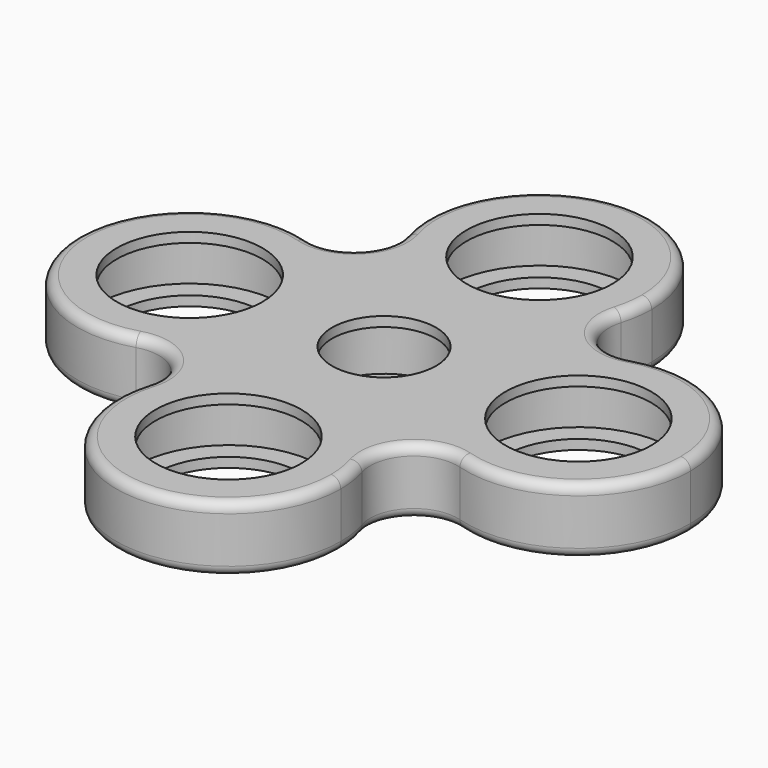
from build123d import *

# Parameters (mm, degrees)
F0_R        = 9.55
F0_R_2      = 7.5
F1_DEPTH    = 1
F0_R_3      = 6.35
F0_R_4      = 5.35
F2_DEPTH    = 6.75
F3_R        = 1
F4_START    = 4.75
F1_FACE_R   = 6.35
F1_FACE_R_2 = 5.35
F4_DEPTH    = 1
F5_START    = 4.75
F1_FACE_R_3 = 9.55
F1_FACE_R_4 = 7.5
F5_DEPTH    = 1


with BuildPart() as f1:
    # F0 (on Top) → F1 (new body)
    with BuildSketch(Plane.XY):
        with Locations((-20, 0)):
            Circle(F0_R)
        with Locations((-20, 0)):
            Circle(F0_R_2, mode=Mode.SUBTRACT)
    extrude(amount=F1_DEPTH)


with BuildPart() as f1b:
    # F0 (on Top) → F1, piece 2 (new body)
    with BuildSketch(Plane.XY):
        with Locations((0, 20)):
            Circle(F0_R)
        with Locations((0, 20)):
            Circle(F0_R_2, mode=Mode.SUBTRACT)
    extrude(amount=F1_DEPTH)


with BuildPart() as f1c:
    # F0 (on Top) → F1, piece 3 (new body)
    with BuildSketch(Plane.XY):
        with Locations((20, 0)):
            Circle(F0_R)
        with Locations((20, 0)):
            Circle(F0_R_2, mode=Mode.SUBTRACT)
    extrude(amount=F1_DEPTH)


with BuildPart() as f1d:
    # F0 (on Top) → F1, piece 4 (new body)
    with BuildSketch(Plane.XY):
        with Locations((0, -20)):
            Circle(F0_R)
        with Locations((0, -20)):
            Circle(F0_R_2, mode=Mode.SUBTRACT)
    extrude(amount=F1_DEPTH)


with BuildPart() as f1e:
    # F0 (on Top) → F1, piece 5 (new body)
    with BuildSketch(Plane.XY):
        Circle(F0_R_3)
        Circle(F0_R_4, mode=Mode.SUBTRACT)
    extrude(amount=F1_DEPTH)


with BuildPart() as f2:
    # F0 (on Top) → F2 (new body)
    with BuildSketch(Plane.XY):
        with BuildLine():
            ThreePointArc((11.0580223422, 16.6649375), (0, 8.45), (-11.0580223422, 16.6649375))
            ThreePointArc((-11.0580223422, 16.6649375), (-12.1846989285, 12.1846989285), (-16.6649375, 11.0580223422))
            ThreePointArc((-16.6649375, 11.0580223422), (-10.7284717583, 6.8877619052), (-8.45, 0))
            ThreePointArc((-8.45, 0), (-10.7284717583, -6.8877619052), (-16.6649375, -11.0580223422))
            ThreePointArc((-16.6649375, -11.0580223422), (-12.1846989285, -12.1846989285), (-11.0580223422, -16.6649375))
            ThreePointArc((-11.0580223422, -16.6649375), (0, -8.45), (11.0580223422, -16.6649375))
            ThreePointArc((11.0580223422, -16.6649375), (12.1846989285, -12.1846989285), (16.6649375, -11.0580223422))
            ThreePointArc((16.6649375, -11.0580223422), (8.45, 0), (16.6649375, 11.0580223422))
            ThreePointArc((16.6649375, 11.0580223422), (12.1846989285, 12.1846989285), (11.0580223422, 16.6649375))
        make_face()
        Circle(F0_R_3, mode=Mode.SUBTRACT)
        with BuildLine():
            ThreePointArc((-8.45, 0), (-10.7284717583, 6.8877619052), (-16.6649375, 11.0580223422))
            ThreePointArc((-16.6649375, 11.0580223422), (-31.55, 0), (-16.6649375, -11.0580223422))
            ThreePointArc((-16.6649375, -11.0580223422), (-10.7284717583, -6.8877619052), (-8.45, 0))
        make_face()
        with Locations((-20, 0)):
            Circle(F0_R, mode=Mode.SUBTRACT)
        with BuildLine():
            ThreePointArc((11.0580223422, 16.6649375), (11.4263436421, 18.3144226587), (11.55, 20))
            ThreePointArc((11.55, 20), (-1.6855773413, 31.4263436421), (-11.0580223422, 16.6649375))
            ThreePointArc((-11.0580223422, 16.6649375), (0, 8.45), (11.0580223422, 16.6649375))
        make_face()
        with Locations((0, 20)):
            Circle(F0_R, mode=Mode.SUBTRACT)
        with BuildLine():
            ThreePointArc((31.55, 0), (26.8877619052, 9.2715282417), (16.6649375, 11.0580223422))
            ThreePointArc((16.6649375, 11.0580223422), (8.45, 0), (16.6649375, -11.0580223422))
            ThreePointArc((16.6649375, -11.0580223422), (26.8877619052, -9.2715282417), (31.55, 0))
        make_face()
        with Locations((20, 0)):
            Circle(F0_R, mode=Mode.SUBTRACT)
        with BuildLine():
            ThreePointArc((11.0580223422, -16.6649375), (0, -8.45), (-11.0580223422, -16.6649375))
            ThreePointArc((-11.0580223422, -16.6649375), (-1.6855773413, -31.4263436421), (11.55, -20))
            ThreePointArc((11.55, -20), (11.4263436421, -18.3144226587), (11.0580223422, -16.6649375))
        make_face()
        with Locations((0, -20)):
            Circle(F0_R, mode=Mode.SUBTRACT)
    extrude(amount=F2_DEPTH)

    # F3
    f3_edges = [f2.edges().sort_by_distance(p)[0] for p in [
        (-12.184699, 12.184699, 0),
        (-31.55, 0, 0),
        (-12.184699, -12.184699, 0),
        (0, -31.55, 0),
        (12.184699, -12.184699, 0),
        (31.55, 0, 0),
        (12.184699, 12.184699, 0),
        (0, 31.55, 0),
        (0, -31.55, 6.75),
    ]]
    fillet(f3_edges, radius=F3_R)

    # F1_face (on face) → F4 (join)
    with BuildSketch(Plane.XY.offset(1).offset(F4_START)):
        Circle(F1_FACE_R)
        Circle(F1_FACE_R_2, mode=Mode.SUBTRACT)
    extrude(amount=F4_DEPTH)

    # F1_face (on face) → F5 (join)
    with BuildSketch(Plane.XY.offset(1).offset(F5_START)):
        with Locations((0, 20)):
            Circle(F1_FACE_R_3)
        with Locations((0, 20)):
            Circle(F1_FACE_R_4, mode=Mode.SUBTRACT)
        with Locations((20, 0)):
            Circle(F1_FACE_R_3)
        with Locations((20, 0)):
            Circle(F1_FACE_R_4, mode=Mode.SUBTRACT)
        with Locations((0, -20)):
            Circle(F1_FACE_R_3)
        with Locations((0, -20)):
            Circle(F1_FACE_R_4, mode=Mode.SUBTRACT)
        with Locations((-20, 0)):
            Circle(F1_FACE_R_3)
        with Locations((-20, 0)):
            Circle(F1_FACE_R_4, mode=Mode.SUBTRACT)
    extrude(amount=F5_DEPTH)


solid = Compound([f1.part, f1b.part, f1c.part, f1d.part, f1e.part, f2.part])
